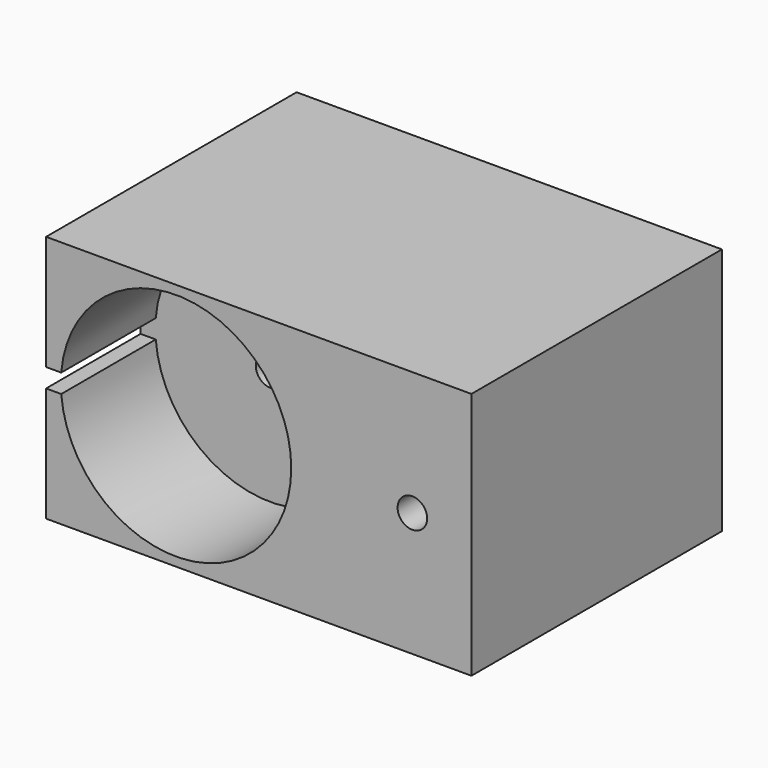
from build123d import *

# Parameters (mm, degrees)
F0_R     = 1.5875
F0_R_2   = 12.3825
F1_DEPTH = 33.655
F2_W     = 6.016172
F2_H     = 2.024958
F3_DEPTH = 12.7
F4_R     = 12.3825
F4_R_2   = 1.5875
F5_DEPTH = 20.955


with BuildPart() as f1:
    # F0 (on Front) → F1 (new body)
    with BuildSketch(Plane.XZ):
        with BuildLine():
            ThreePointArc((40.760279, 16.387484), (36.015898, 13.31191), (40.802172, 10.301946))
            ThreePointArc((40.802172, 10.301946), (42.203223, 11.539621), (42.724182, 13.335))
            ThreePointArc((42.724182, 13.335), (42.190796, 15.14984), (40.760279, 16.387484))
        make_face()
        with Locations((39.37, 13.335)):
            Circle(F0_R, mode=Mode.SUBTRACT)
        with BuildLine():
            ThreePointArc((23.614713, 2.18623), (22.009207, 0.978353), (20.254373, 0))
            Line((20.254373, 0), (45.72, 0))
            Line((45.72, 0), (45.72, 26.67))
            Line((45.72, 26.67), (20.254373, 26.67))
            ThreePointArc((20.254373, 26.67), (22.360042, 25.45617), (24.237647, 23.912854))
            Line((24.237647, 23.912854), (40.760279, 16.387484))
            ThreePointArc((40.760279, 16.387484), (42.190796, 15.14984), (42.724182, 13.335))
            ThreePointArc((42.724182, 13.335), (42.203223, 11.539621), (40.802172, 10.301946))
            Line((40.802172, 10.301946), (23.614713, 2.18623))
        make_face()
        with BuildLine():
            ThreePointArc((0, 8.628126), (2.962228, 3.529669), (7.685627, 0))
            Line((7.685627, 0), (20.254373, 0))
            ThreePointArc((20.254373, 0), (22.009207, 0.978353), (23.614713, 2.18623))
            ThreePointArc((23.614713, 2.18623), (27.376982, 7.205693), (28.711627, 13.335))
            ThreePointArc((28.711627, 13.335), (27.547139, 19.077549), (24.237647, 23.912854))
            ThreePointArc((24.237647, 23.912854), (22.360042, 25.45617), (20.254373, 26.67))
            Line((20.254373, 26.67), (7.685627, 26.67))
            ThreePointArc((7.685627, 26.67), (2.962228, 23.140331), (0, 18.041874))
            Line((0, 18.041874), (0, 8.628126))
        make_face()
        with Locations((13.97, 13.335)):
            Circle(F0_R_2, mode=Mode.SUBTRACT)
        with BuildLine():
            Line((0, 26.67), (0, 18.041874))
            ThreePointArc((0, 18.041874), (2.962228, 23.140331), (7.685627, 26.67))
            Line((7.685627, 26.67), (0, 26.67))
        make_face()
        with BuildLine():
            Line((0, 8.628126), (0, 0))
            Line((0, 0), (7.685627, 0))
            ThreePointArc((7.685627, 0), (2.962228, 3.529669), (0, 8.628126))
        make_face()
        with BuildLine():
            ThreePointArc((28.711627, 13.335), (27.376982, 7.205693), (23.614713, 2.18623))
            Line((23.614713, 2.18623), (40.802172, 10.301946))
            ThreePointArc((40.802172, 10.301946), (36.015898, 13.31191), (40.760279, 16.387484))
            Line((40.760279, 16.387484), (24.237647, 23.912854))
            ThreePointArc((24.237647, 23.912854), (27.547139, 19.077549), (28.711627, 13.335))
        make_face()
    extrude(amount=-F1_DEPTH)

    # F2 (on face) → F3 (cut)
    with BuildSketch(Plane.XZ):
        with Locations((0, 13.335)):
            Rectangle(F2_W, F2_H)
    extrude(amount=-F3_DEPTH, mode=Mode.SUBTRACT)

    # F4 (on face) → F5 (join)
    with BuildSketch(Plane(origin=(0, 33.655, 0), x_dir=(-1, 0, 0), z_dir=(0, 1, 0))):
        with Locations((-13.97, 13.335)):
            Circle(F4_R)
        with Locations((-13.97, 13.335)):
            Circle(F4_R_2, mode=Mode.SUBTRACT)
    extrude(amount=-F5_DEPTH)


solid = f1.part
